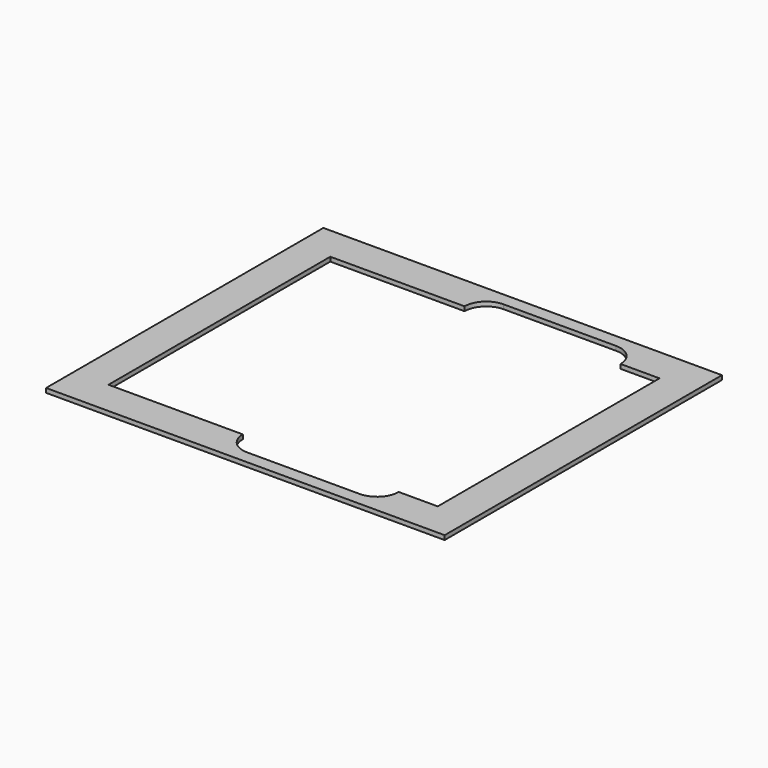
from build123d import *

# Parameters (mm, degrees)
SKETCH_W  = 584.2
SKETCH_H  = 508
PAD_DEPTH = 6.35


with BuildPart() as part:
    # Sketch → Pad (new body)
    with BuildSketch(Plane(origin=(914.4, 1066.8, 914.4), x_dir=(1, 0, 0), z_dir=(0, 0, 1))):
        Rectangle(SKETCH_W, SKETCH_H)
        with BuildLine():
            Line((241.3, -203.2), (241.3, 203.2))
            Line((241.3, 203.2), (184.15, 203.2))
            ThreePointArc((184.15, 203.2), (174.85064, 225.65064), (152.4, 234.95))
            Line((-12.7, 234.95), (152.4, 234.95))
            ThreePointArc((-12.7, 234.95), (-35.15064, 225.65064), (-44.45, 203.2))
            Line((-241.3, 203.2), (-44.45, 203.2))
            Line((-241.3, 203.2), (-241.3, -203.2))
            Line((-241.3, -203.2), (-44.45, -203.2))
            ThreePointArc((-44.45, -203.2), (-35.15064, -225.65064), (-12.7, -234.95))
            Line((-12.7, -234.95), (152.4, -234.95))
            ThreePointArc((152.4, -234.95), (174.85064, -225.65064), (184.15, -203.2))
            Line((241.3, -203.2), (184.15, -203.2))
        make_face(mode=Mode.SUBTRACT)
    extrude(amount=PAD_DEPTH)


solid = part.part
